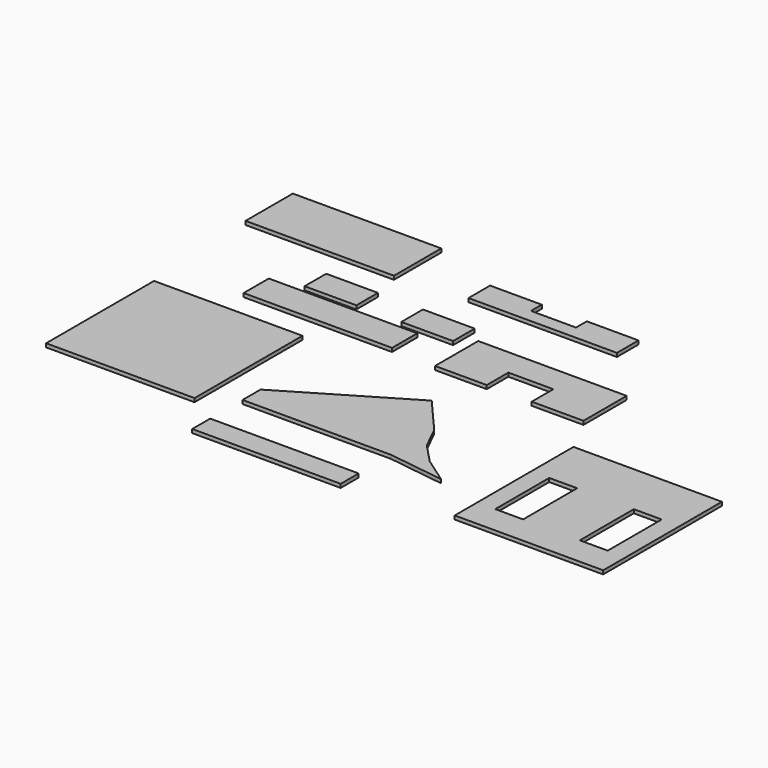
from build123d import *

# Parameters (mm, degrees)
F0_W     = 165
F0_H     = 25
F0_H_2   = 150
F0_W_2   = 82.5
F0_H_3   = 165
F0_W_3   = 31
F0_H_4   = 75
F0_H_5   = 65.711
F0_W_4   = 25
F0_H_6   = 15
F1_DEPTH = 4.064


with BuildPart() as f1:
    # F0 (on Top) → F1 (new body)
    with BuildSketch(Plane.XY):
        Polygon((124.793597, 33.225589), (88.779038, 74.794225), (-40.206403, -1.774411), (-40.206403, -26.774411), (124.793597, -26.774411), align=None)
        with Locations((42.293597, -84.183882)):
            Rectangle(F0_W, F0_H)
        Polygon((138.083637, 6.32996), (124.793597, 33.225589), (124.793597, -26.774411), (187.437498, -35.471475), (158.759422, -15.407379), align=None)
        Polygon((132.813987, 187.478614), (50.313987, 187.478614), (50.313987, 127.478614), (107.813987, 127.478614), (107.813987, 157.478614), (132.813987, 157.478614), align=None)
        Polygon((215.313987, 187.478614), (132.813987, 187.478614), (132.813987, 157.478614), (157.813987, 157.478614), (157.813987, 127.478614), (215.313987, 127.478614), align=None)
        with Locations((-157.430943, 24.909955)):
            Rectangle(F0_W, F0_H_2)
        with Locations((280.477563, 1.206201)):
            Rectangle(F0_W_2, F0_H_3)
        with Locations((274.727563, -12.473376)):
            Rectangle(F0_W_3, F0_H_4, mode=Mode.SUBTRACT)
        with Locations((362.977563, 1.206201)):
            Rectangle(F0_W_2, F0_H_3)
        with Locations((368.727563, -12.473376)):
            Rectangle(F0_W_3, F0_H_4, mode=Mode.SUBTRACT)
        with Locations((-165.96974, 270.533223)):
            Rectangle(F0_W, F0_H_5)
        Polygon((-82.5, 150.700037), (-82.5, 130.700037), (0, 130.700037), (0, 165.700037), (-57.5, 165.700037), (-57.5, 150.700037), align=None)
        Polygon((-107.5, 165.700037), (-165, 165.700037), (-165, 130.700037), (-82.5, 130.700037), (-82.5, 150.700037), (-107.5, 150.700037), align=None)
        Polygon((50.753221, 275.288834), (-6.746779, 275.288834), (-6.746779, 245.288834), (50.753221, 245.288834), (50.753221, 260.288834), align=None)
        Polygon((158.253221, 275.288834), (100.753221, 275.288834), (100.753221, 260.288834), (100.753221, 245.288834), (158.253221, 245.288834), align=None)
        with Locations((-95, 158.200037)):
            Rectangle(F0_W_4, F0_H_6)
        with Locations((-70, 158.200037)):
            Rectangle(F0_W_4, F0_H_6)
        Polygon((-74.179878, 203.811913), (-131.679878, 203.811913), (-131.679878, 173.811913), (-74.179878, 173.811913), (-74.179878, 193.811913), align=None)
        Polygon((33.320122, 203.811913), (-24.179878, 203.811913), (-24.179878, 193.811913), (-24.179878, 173.811913), (33.320122, 173.811913), align=None)
        with Locations((88.253221, 252.788834)):
            Rectangle(F0_W_4, F0_H_6)
        with Locations((63.253221, 252.788834)):
            Rectangle(F0_W_4, F0_H_6)
    extrude(amount=F1_DEPTH)


solid = f1.part
